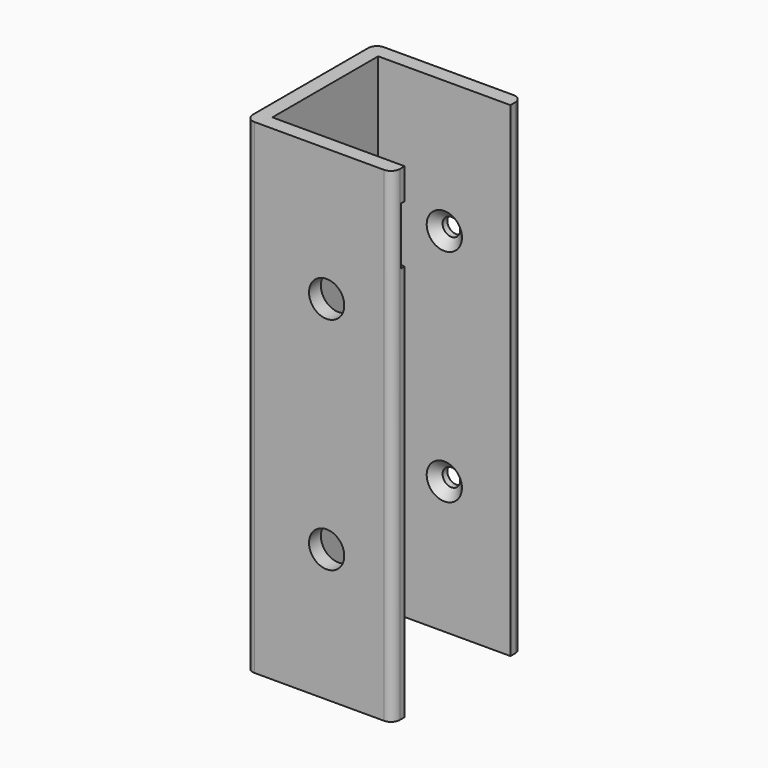
from build123d import *

# Parameters (mm, degrees)
F1_DEPTH       = 110
F2_R           = 2
F4_D           = 8
F4_DEPTH       = 4
F6_D           = 4
F6_DEPTH       = 4
F6_CSINK_D     = 8
F6_CSINK_ANGLE = 90
F7_W           = 30
F7_H           = 13
F8_DEPTH       = 1


with BuildPart() as f1:
    # F0 (on Top) → F1 (new body)
    with BuildSketch(Plane.XY):
        Polygon((15, -18.36), (15, -15), (-15, -15), (-15, 15), (15, 15), (15, 18.36), (-18.36, 18.36), (-18.36, -18.36), align=None)
    extrude(amount=F1_DEPTH)

    # F2
    f2_edges = [f1.edges().sort_by_distance(p)[0] for p in [
        (-18.36, -18.36, 55),
        (-18.36, 18.36, 55),
        (15, -18.36, 55),
        (15, 18.36, 55),
    ]]
    fillet(f2_edges, radius=F2_R)

    # F4
    with Locations(Plane.XZ.offset(18.36)):
        with Locations((0, 30), (0, 80)):
            Hole(F4_D / 2, depth=F4_DEPTH)

    # F6
    with Locations(Plane.XZ.offset(-15)):
        with Locations((0, 30), (0, 80)):
            CounterSinkHole(F6_D / 2, F6_CSINK_D / 2, depth=F6_DEPTH, counter_sink_angle=F6_CSINK_ANGLE)

    # F7 (on face) → F8 (cut)
    with BuildSketch(Plane(origin=(0, -15, 0), x_dir=(-1, 0, 0), z_dir=(0, 1, 0))):
        with Locations((0, 96.5)):
            Rectangle(F7_W, F7_H)
    extrude(amount=-F8_DEPTH, mode=Mode.SUBTRACT)


solid = f1.part
